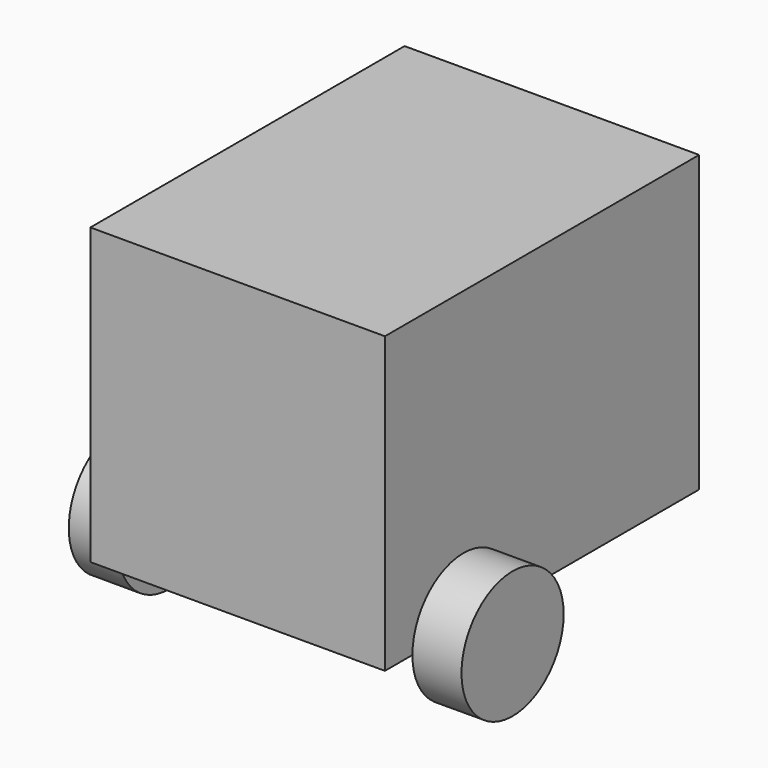
from build123d import *

# Parameters (mm, degrees)
F3_DEPTH = 560
F4_DEPTH = 100


with BuildPart() as f3:
    # F2 (on Right) → F3 (new body)
    with BuildSketch(Plane.YZ):
        with BuildLine():
            Line((-70, -300), (400, -300))
            Line((400, -300), (400, 300))
            Line((400, 300), (-400, 300))
            Line((-400, 300), (-400, -300))
            Line((-400, -300), (-330, -300))
            ThreePointArc((-330, -300), (-200, -170), (-70, -300))
        make_face()
        with BuildLine():
            Line((-330, -300), (-70, -300))
            ThreePointArc((-70, -300), (-200, -170), (-330, -300))
        make_face()
    extrude(amount=F3_DEPTH)

    # F2 (on Right) → F4 (join)
    with BuildSketch(Plane.YZ):
        with BuildLine():
            ThreePointArc((-330, -300), (-200, -430), (-70, -300))
            Line((-70, -300), (-330, -300))
        make_face()
        with BuildLine():
            Line((-330, -300), (-70, -300))
            ThreePointArc((-70, -300), (-200, -170), (-330, -300))
        make_face()
    extrude(amount=-F4_DEPTH)

    # F6: F3 across plane


with BuildPart() as f3_1:
    add(f3.part)
    add(f3.part.mirror(Plane(origin=(300, 11.7085678948, 14.3328259835), x_dir=(0, 1, 0), z_dir=(-1, 0, 0))))


solid = f3_1.part
